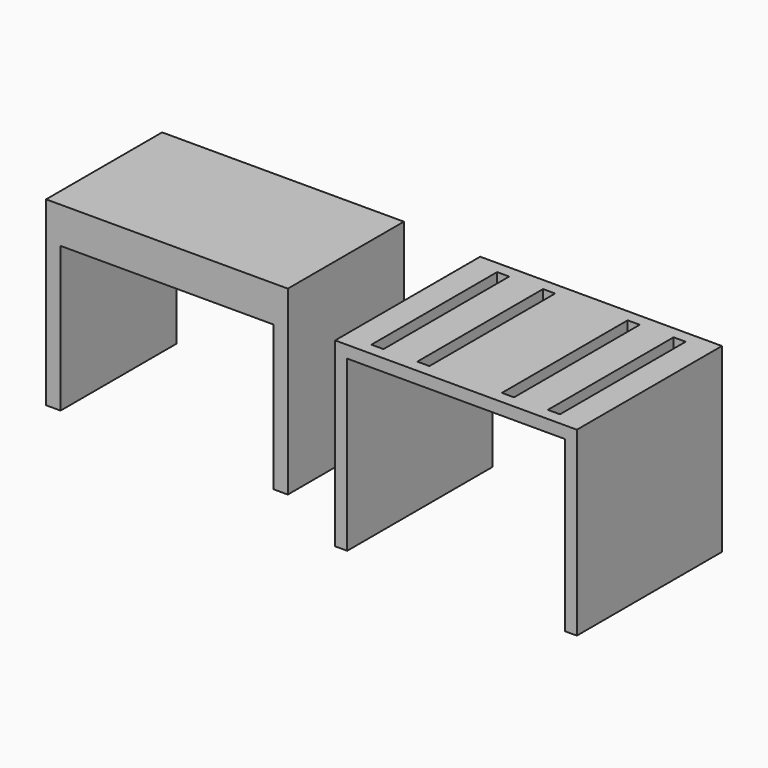
from build123d import *

# Parameters (mm, degrees)
F0_W     = 508
F0_H     = 381
F1_DEPTH = 304.8
F2_W     = 447.04
F2_H     = 304.8
F3_DEPTH = 304.8
F4_W     = 508
F4_H     = 381
F5_DEPTH = 381
F6_W     = 457.2
F6_H     = 355.6
F7_DEPTH = 381
F8_W     = 25.4
F8_H     = 330.2
F9_DEPTH = 25.4


with BuildPart() as f1:
    # F0 (on Front) → F1 (new body)
    with BuildSketch(Plane.XZ):
        with Locations((-45.234757, 25.763125)):
            Rectangle(F0_W, F0_H)
    extrude(amount=F1_DEPTH)

    # F2 (on face) → F3 (cut)
    with BuildSketch(Plane.XZ.offset(304.8)):
        with Locations((-45.234757, -12.336875)):
            Rectangle(F2_W, F2_H)
    extrude(amount=-F3_DEPTH, mode=Mode.SUBTRACT)


with BuildPart() as f5:
    # F4 (on Front) → F5 (new body)
    with BuildSketch(Plane.XZ):
        with Locations((623.118937, 13.103522)):
            Rectangle(F4_W, F4_H)
    extrude(amount=F5_DEPTH)

    # F6 (on face) → F7 (cut)
    with BuildSketch(Plane(origin=(0, 0, 0), x_dir=(-1, 0, 0), z_dir=(0, 1, 0))):
        with Locations((-623.118937, 0.403522)):
            Rectangle(F6_W, F6_H)
    extrude(amount=-F7_DEPTH, mode=Mode.SUBTRACT)

    # F8 (on face) → F9 (cut)
    with BuildSketch(Plane.XY.offset(203.603522)):
        with Locations((437.698937, -190.5)):
            Rectangle(F8_W, F8_H)
        with Locations((534.218937, -190.5)):
            Rectangle(F8_W, F8_H)
        with Locations((712.018937, -190.5)):
            Rectangle(F8_W, F8_H)
        with Locations((808.538937, -190.5)):
            Rectangle(F8_W, F8_H)
    extrude(amount=-F9_DEPTH, mode=Mode.SUBTRACT)


solid = Compound([f1.part, f5.part])
